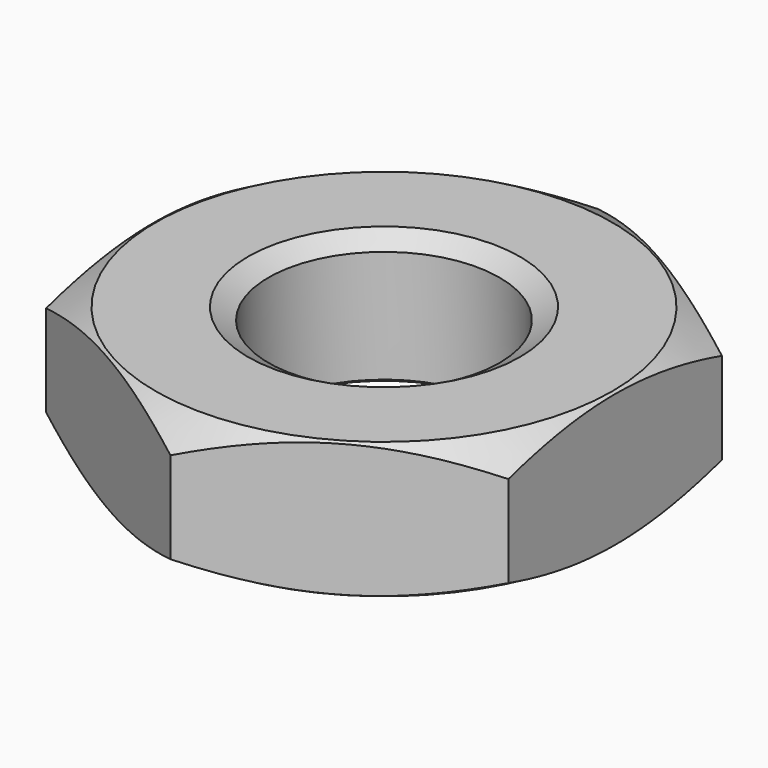
from build123d import *

# Parameters (mm, degrees)
SKETCH001_R  = 10
POCKET_DEPTH = 5


with BuildPart() as part:
    # Sketch → Revolution (revolve)
    with BuildSketch(Plane.XZ):
        Polygon((5, 0), (4.25, 0.433013), (4.25, 4.566987), (5, 5), (8.4, 5), (10, 4.07624), (10, 0.92376), (8.4, 0), align=None)
    revolve(axis=Axis((0, 0, 0), (0, 0, 1)))

    # Sketch001 → Pocket (cut)
    with BuildSketch(Plane(origin=(0, 0, 5), x_dir=(-1, 0, 0), z_dir=(0, 0, 1))):
        Circle(SKETCH001_R)
        Polygon((-8.5, 4.907477), (-8.5, -4.907477), (0, -9.814955), (8.5, -4.907477), (8.5, 4.907477), (0, 9.814955), align=None, mode=Mode.SUBTRACT)
    extrude(amount=-POCKET_DEPTH, mode=Mode.SUBTRACT)


solid = part.part
